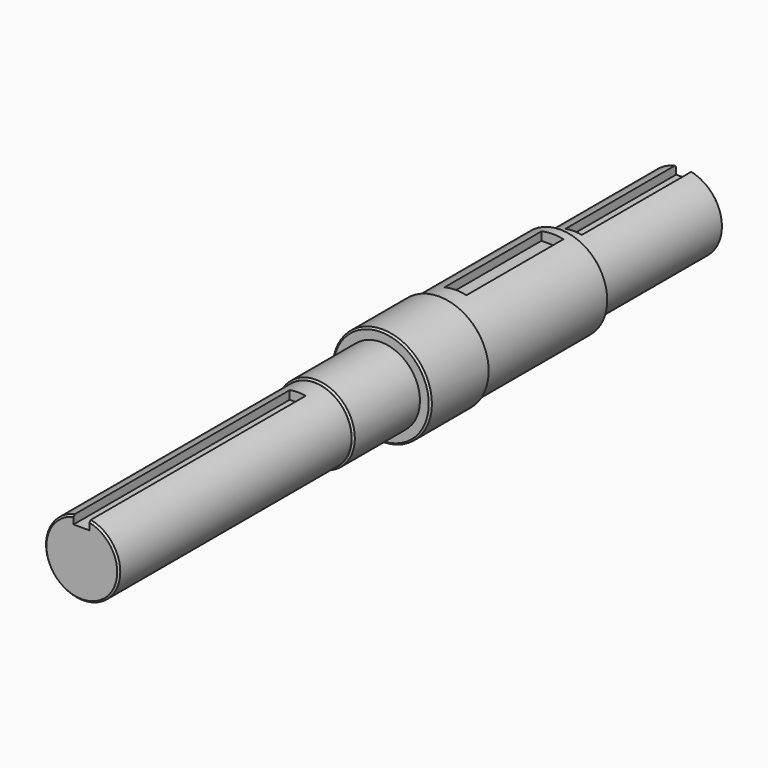
from build123d import *

# Parameters (mm, degrees)
F0_W     = 168
F0_H     = 21.43
F0_W_2   = 44.5
F0_H_2   = 22.5
F0_W_3   = 44
F3_DEPTH = 156
F5_W     = 12.7
F5_H     = 7
F6_DEPTH = 70
F8_DEPTH = 80
F9_SIZE  = 1
F10_SIZE = 1
F11_SIZE = 1
F12_SIZE = 1


with BuildPart() as f1:
    # F0 (on Right) → F1 (revolve)
    with BuildSketch(Plane.YZ):
        with Locations((-132, 10.715)):
            Rectangle(F0_W, F0_H)
        Polygon((-48, 21.43), (-48, 0), (0, 0), (0, 22.5), (-48, 22.5), align=None)
        Polygon((0, 22.5), (0, 0), (43, 0), (43, 27.05), (43, 28.6), (0, 28.6), align=None)
        Polygon((43, 27.05), (43, 0), (130.5, 0), (130.5, 22.5), (130.5, 27.05), align=None)
        with Locations((152.75, 11.25)):
            Rectangle(F0_W_2, F0_H_2)
        with Locations((197, 11.25)):
            Rectangle(F0_W_3, F0_H_2)
    revolve(axis=Axis((0, 197, 0), (0, 1, 0)))

    # F2 (on face) → F3 (cut)
    with BuildSketch(Plane.XZ.offset(216)):
        with BuildLine():
            Line((-4.7436739586, 16), (4.4563260414, 16))
            Line((4.4563260414, 16), (4.4563260414, 20.9615375918))
            ThreePointArc((4.4563260414, 20.9615375918), (-0.1471030174, 21.4294951108), (-4.7436739586, 20.8983840852))
            Line((-4.7436739586, 20.8983840852), (-4.7436739586, 16))
        make_face()
    extrude(amount=-F3_DEPTH, mode=Mode.SUBTRACT)

    # F5 (on offset) → F6 (cut)
    with BuildSketch(Plane.XZ.offset(-54)):
        with Locations((-0.2053595381, 24.9309174805)):
            Rectangle(F5_W, F5_H)
    extrude(amount=-F6_DEPTH, mode=Mode.SUBTRACT)

    # F7 (on face) → F8 (cut)
    with BuildSketch(Plane(origin=(0, 219, 0), x_dir=(-1, 0, 0), z_dir=(0, 1, 0))):
        with BuildLine():
            ThreePointArc((4.76, 21.9907344125), (0, 22.5), (-4.76, 21.9907344125))
            Line((-4.76, 21.9907344125), (-4.76, 17.0498597833))
            Line((-4.76, 17.0498597833), (4.76, 17.0498597833))
            Line((4.76, 17.0498597833), (4.76, 21.9907344125))
        make_face()
    extrude(amount=-F8_DEPTH, mode=Mode.SUBTRACT)

    # F9
    f9_edges = [f1.edges().sort_by_distance(p)[0] for p in [
        (0.147103, -216, -21.429495),
    ]]
    chamfer(f9_edges, length=F9_SIZE)

    # F10
    f10_edges = [f1.edges().sort_by_distance(p)[0] for p in [
        (0, -48, -22.5),
    ]]
    chamfer(f10_edges, length=F10_SIZE)

    # F11
    f11_edges = [f1.edges().sort_by_distance(p)[0] for p in [
        (0, 0, -28.6),
        (0, 43, -28.6),
    ]]
    chamfer(f11_edges, length=F11_SIZE)

    # F12
    f12_edges = [f1.edges().sort_by_distance(p)[0] for p in [
        (0, 130.5, -27.05),
        (0, 219, -22.5),
    ]]
    chamfer(f12_edges, length=F12_SIZE)


solid = f1.part
